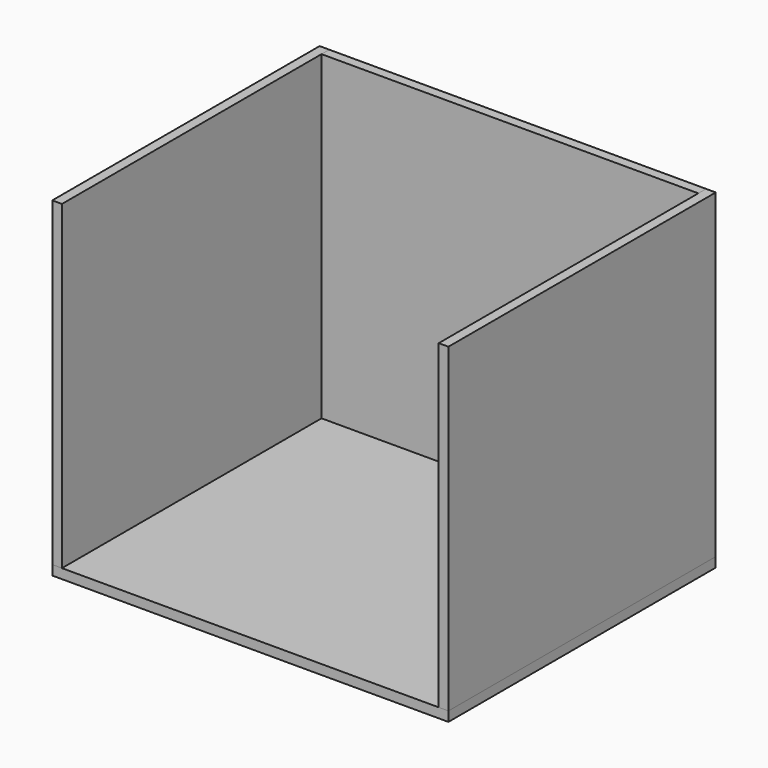
from build123d import *

# Parameters (mm, degrees)
F0_W     = 409
F0_H     = 345
F1_DEPTH = 10
F2_W     = 389
F2_H     = 10
F4_DEPTH = 331
F5_DEPTH = 331
F6_DEPTH = 331


with BuildPart() as f1:
    # F0 (on Top) → F1 (new body)
    with BuildSketch(Plane.XY):
        Rectangle(F0_W, F0_H)
    extrude(amount=F1_DEPTH)


with BuildPart() as f4:
    # F2 (on face) → F4 (new body)
    with BuildSketch(Plane.XY.offset(10)):
        with Locations((0, 167.5)):
            Rectangle(F2_W, F2_H)
    extrude(amount=F4_DEPTH)


with BuildPart() as f5:
    # F2 (on face) → F5 (new body)
    with BuildSketch(Plane.XY.offset(10)):
        Polygon((-194.5, 172.5), (-204.5, 172.5), (-204.5, -172.5), (-194.5, -172.5), (-194.5, 162.5), align=None)
    extrude(amount=F5_DEPTH)


with BuildPart() as f6:
    # F2 (on face) → F6 (new body)
    with BuildSketch(Plane.XY.offset(10)):
        Polygon((204.5, 172.5), (194.5, 172.5), (194.5, 162.5), (194.5, -172.5), (204.5, -172.5), align=None)
    extrude(amount=F6_DEPTH)


solid = Compound([f1.part, f4.part, f5.part, f6.part])
